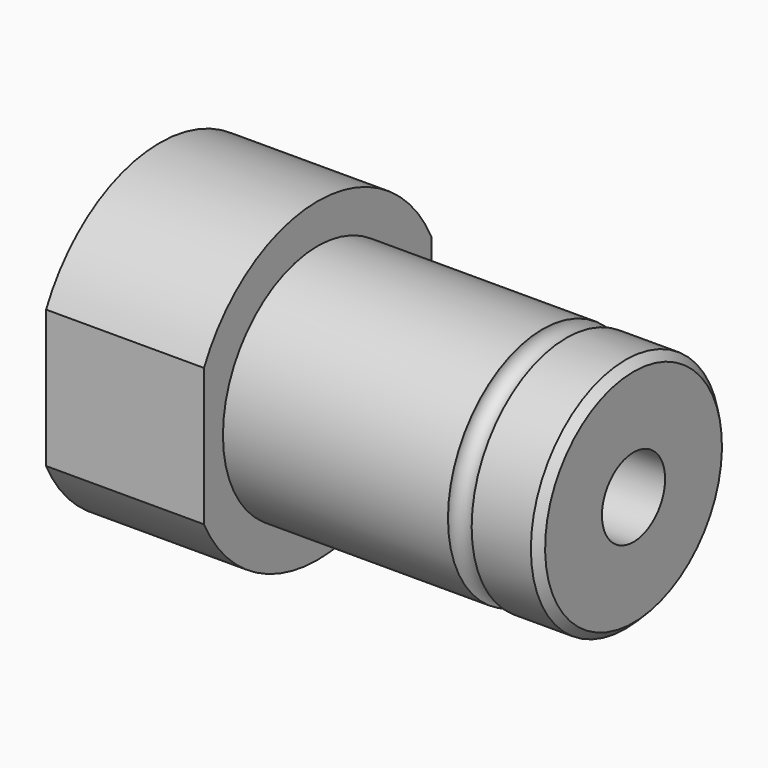
from build123d import *

# Parameters (mm, degrees)
F3_SIZE  = 1
F1_R     = 1.5
F6_DEPTH = 20
F7_R     = 5
F8_DEPTH = 60


with BuildPart() as f2:
    # F0 (on Front) → F2 (revolve)
    with BuildSketch(Plane.XZ):
        Polygon((0, 20), (0, 0), (60, 0), (60, 15), (20, 15), (20, 20), align=None)
    revolve(axis=Axis((30, 0, 0), (1, 0, 0)))

    # F3
    f3_edges = [f2.edges().sort_by_distance(p)[0] for p in [
        (60, 0, -15),
    ]]
    chamfer(f3_edges, length=F3_SIZE)

    # F1 (on face) → F4 (revolve, cut)
    with BuildSketch(Plane.XZ):
        with Locations((50, 15)):
            Circle(F1_R)
    revolve(axis=Axis((30, 0, 0), (1, 0, 0)), mode=Mode.SUBTRACT)

    # F5 (on face) → F6 (cut, through all)
    with BuildSketch(Plane(origin=(0, 0, 0), x_dir=(0, -1, 0), z_dir=(-1, 0, 0))):
        with BuildLine():
            Line((18, 8.7177978871), (18, -8.7177978871))
            ThreePointArc((18, -8.7177978871), (19.4935886896, -4.472135955), (20, 0))
            ThreePointArc((20, 0), (19.4935886896, 4.472135955), (18, 8.7177978871))
        make_face()
        with BuildLine():
            ThreePointArc((-18, 8.7177978871), (-20, 0), (-18, -8.7177978871))
            Line((-18, -8.7177978871), (-18, 8.7177978871))
        make_face()
    extrude(amount=-F6_DEPTH, mode=Mode.SUBTRACT)

    # F7 (on face) → F8 (cut, through all)
    with BuildSketch(Plane(origin=(0, 0, 0), x_dir=(0, -1, 0), z_dir=(-1, 0, 0))):
        Circle(F7_R)
    extrude(amount=-F8_DEPTH, mode=Mode.SUBTRACT)


solid = f2.part
